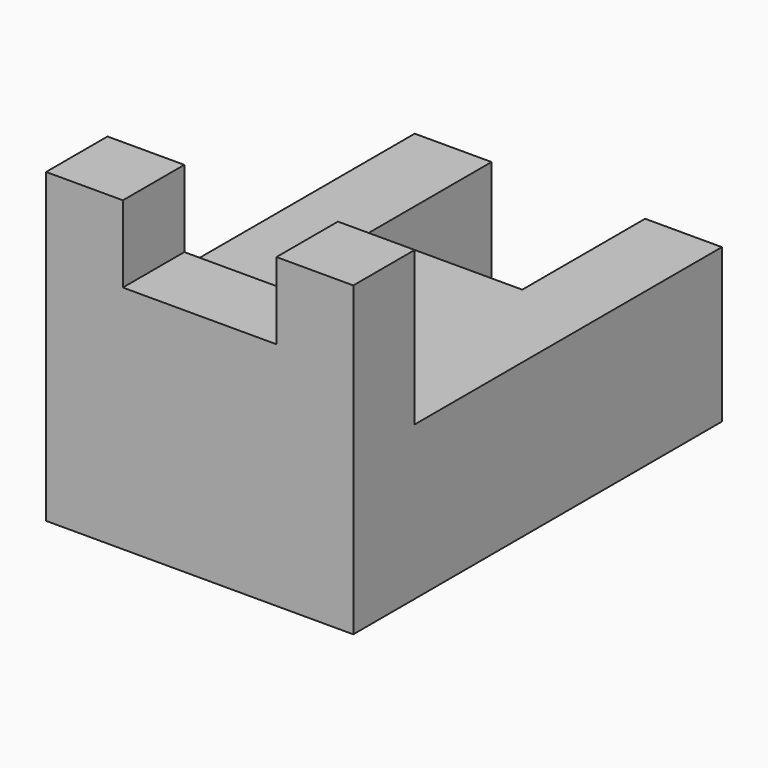
from build123d import *

# Parameters (mm, degrees)
F1_DEPTH = 25.4
F2_W     = 12.7
F2_H     = 6.35
F3_DEPTH = 38.101
F4_W     = 12.7
F4_H     = 12.7
F5_DEPTH = 25.401


with BuildPart() as f1:
    # F0 (on Right) → F1 (new body)
    with BuildSketch(Plane.YZ):
        Polygon((-38.1, 0), (0, 0), (0, 12.7), (-31.75, 12.7), (-31.75, 25.4), (-38.1, 25.4), align=None)
    extrude(amount=F1_DEPTH)

    # F2 (on Front) → F3 (cut, through all)
    with BuildSketch(Plane.XZ):
        with Locations((12.7, 22.225)):
            Rectangle(F2_W, F2_H)
    extrude(amount=F3_DEPTH, mode=Mode.SUBTRACT)

    # F4 (on Top) → F5 (cut, through all)
    with BuildSketch(Plane.XY):
        with Locations((12.7, -6.35)):
            Rectangle(F4_W, F4_H)
    extrude(amount=F5_DEPTH, mode=Mode.SUBTRACT)


solid = f1.part
